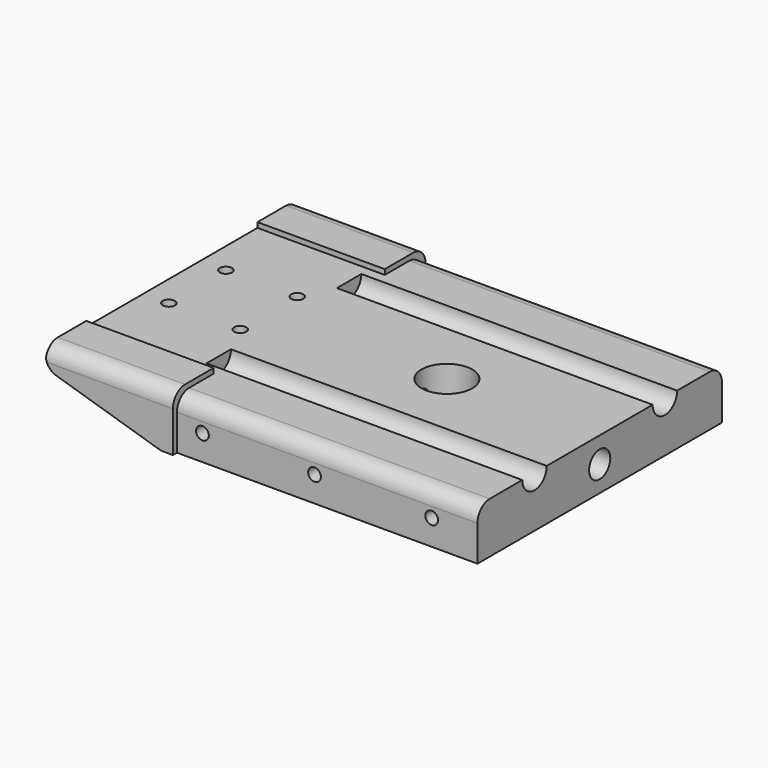
from build123d import *

# Parameters (mm, degrees)
CYLINDER178_R          = 3
CYLINDER178_DEPTH      = 62
CYLINDER179_R          = 3
CYLINDER179_DEPTH      = 62
CYLINDER174_R          = 1.2
CYLINDER174_DEPTH      = 4
CYLINDER176_R          = 1.2
CYLINDER176_DEPTH      = 8
CYLINDER177_R          = 1.2
CYLINDER177_DEPTH      = 8
CYLINDER175_R          = 1.2
CYLINDER175_DEPTH      = 4
CYLINDER002_R          = 1.6
CYLINDER002_DEPTH      = 41
CYLINDER003_R          = 2.6
CYLINDER003_DEPTH      = 20
CYLINDER001_R          = 1.4
CYLINDER001_DEPTH      = 51
CYLINDER008_R          = 1.25
CYLINDER008_DEPTH      = 15
CYLINDER007_R          = 1.25
CYLINDER007_DEPTH      = 15
CYLINDER009_R          = 1.25
CYLINDER009_DEPTH      = 15
CYLINDER005_R          = 1.25
CYLINDER005_DEPTH      = 15
CYLINDER006_R          = 1.25
CYLINDER006_DEPTH      = 15
CYLINDER004_R          = 1.25
CYLINDER004_DEPTH      = 15
CYLINDER_R             = 5
CYLINDER_DEPTH         = 19
BOX084_W               = 30
BOX084_H               = 62
BOX084_DEPTH           = 10
BOX084_PLACEMENT_ANGLE = 17
BOX083_W               = 25
BOX083_H               = 42
BOX083_DEPTH           = 1.5
BOX079_W               = 25
BOX079_H               = 62
BOX079_DEPTH           = 11
FILLET045_R            = 3
BOX008_W               = 60
BOX008_H               = 60
BOX008_DEPTH           = 10
FILLET044_R            = 3
FILLET046_R            = 3


with BuildPart() as cylinder178:
    # Cylinder178 → Cylinder178 (new body)
    with BuildSketch(Plane(origin=(67, 15, 19), x_dir=(0, 0, -1), z_dir=(1, 0, 0))):
        Circle(CYLINDER178_R)
    extrude(amount=CYLINDER178_DEPTH)


with BuildPart() as fusion154:
    # Cylinder179 → Cylinder179 (new body)
    with BuildSketch(Plane(origin=(67, 47, 19), x_dir=(0, 0, -1), z_dir=(1, 0, 0))):
        Circle(CYLINDER179_R)
    extrude(amount=CYLINDER179_DEPTH)

    # Fusion154: union Cylinder178
    add(cylinder178.part)


with BuildPart() as cylinder174:
    # Cylinder174 → Cylinder174 (new body)
    with BuildSketch(Plane(origin=(50, 24, 15), x_dir=(1, 0, 0), z_dir=(0, 0, 1))):
        Circle(CYLINDER174_R)
    extrude(amount=CYLINDER174_DEPTH)


with BuildPart() as cylinder176:
    # Cylinder176 → Cylinder176 (new body)
    with BuildSketch(Plane(origin=(64, 24, 11), x_dir=(1, 0, 0), z_dir=(0, 0, 1))):
        Circle(CYLINDER176_R)
    extrude(amount=CYLINDER176_DEPTH)


with BuildPart() as cylinder177:
    # Cylinder177 → Cylinder177 (new body)
    with BuildSketch(Plane(origin=(64, 38, 11), x_dir=(1, 0, 0), z_dir=(0, 0, 1))):
        Circle(CYLINDER177_R)
    extrude(amount=CYLINDER177_DEPTH)


with BuildPart() as fusion153:
    # Cylinder175 → Cylinder175 (new body)
    with BuildSketch(Plane(origin=(50, 38, 15), x_dir=(1, 0, 0), z_dir=(0, 0, 1))):
        Circle(CYLINDER175_R)
    extrude(amount=CYLINDER175_DEPTH)

    # Fusion153: union Cylinder174, Cylinder176, Cylinder177
    add(cylinder174.part)
    add(cylinder176.part)
    add(cylinder177.part)


with BuildPart() as cylinder002:
    # Cylinder002 → Cylinder002 (new body)
    with BuildSketch(Plane(origin=(20, 31, 10), x_dir=(0, 0, -1), z_dir=(1, 0, 0))):
        Circle(CYLINDER002_R)
    extrude(amount=CYLINDER002_DEPTH)


with BuildPart() as cylinder003:
    # Cylinder003 → Cylinder003 (new body)
    with BuildSketch(Plane(origin=(41, 31, 10), x_dir=(0, 0, -1), z_dir=(1, 0, 0))):
        Circle(CYLINDER003_R)
    extrude(amount=CYLINDER003_DEPTH)


with BuildPart() as fusion149:
    # Cylinder001 → Cylinder001 (new body)
    with BuildSketch(Plane(origin=(10, 31, 10), x_dir=(0, 0, -1), z_dir=(1, 0, 0))):
        Circle(CYLINDER001_R)
    extrude(amount=CYLINDER001_DEPTH)

    # Fusion149: union Cylinder002, Cylinder003
    add(cylinder002.part)
    add(cylinder003.part)


with BuildPart() as fusion149_1:
    # Fusion149 placement: moved
    add(fusion149.part.moved(Location((-1, 0, 4))))


with BuildPart() as cylinder008:
    # Cylinder008 → Cylinder008 (new body)
    with BuildSketch(Plane(origin=(6, 15, 14), x_dir=(1, 0, 0), z_dir=(0, -1, 0))):
        Circle(CYLINDER008_R)
    extrude(amount=CYLINDER008_DEPTH)


with BuildPart() as cylinder007:
    # Cylinder007 → Cylinder007 (new body)
    with BuildSketch(Plane(origin=(28, 15, 14), x_dir=(1, 0, 0), z_dir=(0, -1, 0))):
        Circle(CYLINDER007_R)
    extrude(amount=CYLINDER007_DEPTH)


with BuildPart() as fusion008:
    # Cylinder009 → Cylinder009 (new body)
    with BuildSketch(Plane(origin=(51, 15, 14), x_dir=(1, 0, 0), z_dir=(0, -1, 0))):
        Circle(CYLINDER009_R)
    extrude(amount=CYLINDER009_DEPTH)

    # Fusion008: union Cylinder008, Cylinder007
    add(cylinder008.part)
    add(cylinder007.part)


with BuildPart() as fusion008_1:
    # Fusion008 placement: moved
    add(fusion008.part.moved(Location((0, 47, 0))))


with BuildPart() as cylinder005:
    # Cylinder005 → Cylinder005 (new body)
    with BuildSketch(Plane(origin=(6, 15, 14), x_dir=(1, 0, 0), z_dir=(0, -1, 0))):
        Circle(CYLINDER005_R)
    extrude(amount=CYLINDER005_DEPTH)


with BuildPart() as cylinder006:
    # Cylinder006 → Cylinder006 (new body)
    with BuildSketch(Plane(origin=(28, 15, 14), x_dir=(1, 0, 0), z_dir=(0, -1, 0))):
        Circle(CYLINDER006_R)
    extrude(amount=CYLINDER006_DEPTH)


with BuildPart() as fusion009:
    # Cylinder004 → Cylinder004 (new body)
    with BuildSketch(Plane(origin=(51, 15, 14), x_dir=(1, 0, 0), z_dir=(0, -1, 0))):
        Circle(CYLINDER004_R)
    extrude(amount=CYLINDER004_DEPTH)

    # Fusion007: union Cylinder005, Cylinder006
    add(cylinder005.part)
    add(cylinder006.part)

    # Fusion009: union Fusion008
    add(fusion008_1.part)


with BuildPart() as cylinder:
    # Cylinder → Cylinder (new body)
    with BuildSketch(Plane(origin=(30, 31, 6), x_dir=(1, 0, 0), z_dir=(0, 0, 1))):
        Circle(CYLINDER_R)
    extrude(amount=CYLINDER_DEPTH)


with BuildPart() as cube052:
    # Box084 → Box084 (new body)
    with BuildSketch(Plane.XY):
        with Locations((15, 31)):
            Rectangle(BOX084_W, BOX084_H)
    extrude(amount=BOX084_DEPTH)


with BuildPart() as cube052_1:
    # Box084 placement: moved
    add(cube052.part.moved(Location((-29, 0, 7))).rotate(Axis((-29, 0, 7), (0, 1, 0)), BOX084_PLACEMENT_ANGLE))


with BuildPart() as cube051:
    # Box083 → Box083 (new body)
    with BuildSketch(Plane(origin=(-24, 10, 19), x_dir=(1, 0, 0), z_dir=(0, 0, 1))):
        with Locations((12.5, 21)):
            Rectangle(BOX083_W, BOX083_H)
    extrude(amount=BOX083_DEPTH)


with BuildPart() as fillet045:
    # Box079 → Box079 (new body)
    with BuildSketch(Plane(origin=(-24, 0, 9), x_dir=(1, 0, 0), z_dir=(0, 0, 1))):
        with Locations((12.5, 31)):
            Rectangle(BOX079_W, BOX079_H)
    extrude(amount=BOX079_DEPTH)

    # Cut098: cut Cube051
    add(cube051.part, mode=Mode.SUBTRACT)

    # Fillet045
    fillet045_edges = [fillet045.edges().sort_by_distance(p)[0] for p in [
        (-11.5, 0, 20),
        (-11.5, 62, 20),
    ]]
    fillet(fillet045_edges, radius=FILLET045_R)


with BuildPart() as fifth_wheel_plate:
    # Box008 → Box008 (new body)
    with BuildSketch(Plane(origin=(0, 1, 9), x_dir=(1, 0, 0), z_dir=(0, 0, 1))):
        with Locations((30, 30)):
            Rectangle(BOX008_W, BOX008_H)
    extrude(amount=BOX008_DEPTH)

    # Fillet044
    fillet044_edges = [fifth_wheel_plate.edges().sort_by_distance(p)[0] for p in [
        (30, 1, 19),
        (30, 61, 19),
    ]]
    fillet(fillet044_edges, radius=FILLET044_R)

    # Fusion150: union Fillet045
    add(fillet045.part)

    # Cut099: cut Cube052
    add(cube052_1.part, mode=Mode.SUBTRACT)

    # Cut100: cut Cylinder
    add(cylinder.part, mode=Mode.SUBTRACT)

    # Cut101: cut Fusion009
    add(fusion009.part, mode=Mode.SUBTRACT)

    # Cut102: cut Fusion149
    add(fusion149_1.part, mode=Mode.SUBTRACT)

    # Fillet046
    fillet046_edges = [fifth_wheel_plate.edges().sort_by_distance(p)[0] for p in [
        (-1.338669, 31, 9),
        (-24, 31, 15.928264),
    ]]
    fillet(fillet046_edges, radius=FILLET046_R)


with BuildPart() as fifth_wheel_plate_1:
    # Fillet046 placement: moved
    add(fifth_wheel_plate.part.moved(Location((69, 0, 0))))

    # Cut109: cut Fusion153
    add(fusion153.part, mode=Mode.SUBTRACT)

    # Cut111: cut Fusion154
    add(fusion154.part, mode=Mode.SUBTRACT)


solid = fifth_wheel_plate_1.part
